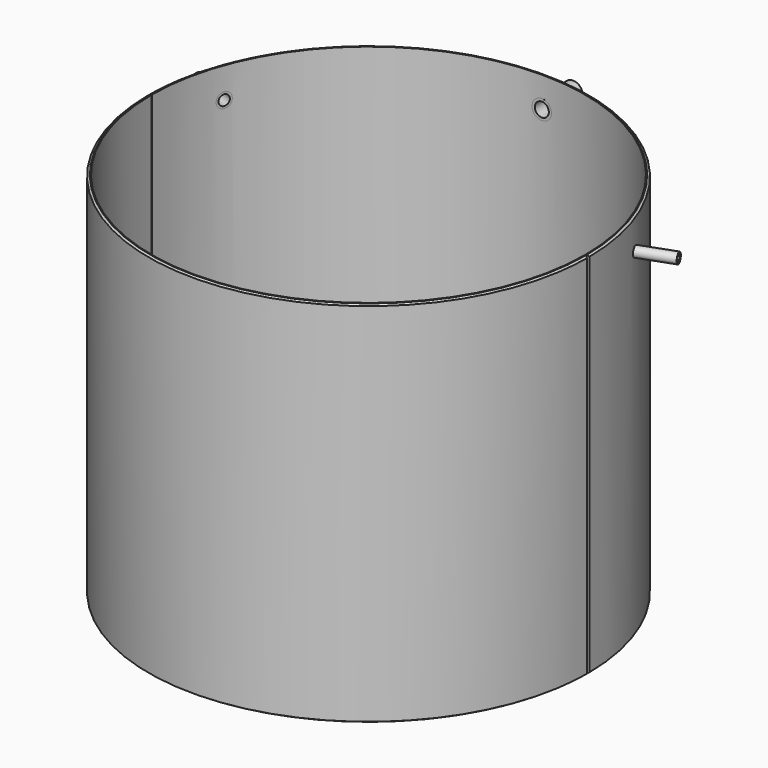
from build123d import *

# Parameters (mm, degrees)
F1_DEPTH  = 600
F7_R      = 31.65
F7_R_2    = 22.91
F10_DEPTH = 716.001
F11_DEPTH = 833
F8_R      = 24.15
F8_R_2    = 17.01
F12_DEPTH = 957.7036279009
F13_DEPTH = 833
F9_R      = 16.7
F9_R_2    = 10.35
F14_DEPTH = 957.7036279351
F15_DEPTH = 833
F16_R     = 706
F17_DEPTH = 600.0010001
F18_DEPTH = 600.0010001
F19_DEPTH = 600.0010001
F20_ANGLE = -90


with BuildPart() as f1:
    # F0 (on Top) → F1 (new body, symmetric)
    with BuildSketch(Plane.XY):
        with BuildLine():
            Line((-1.5, 708.9984132563), (-5.5300381047, 715.9786440101))
            ThreePointArc((-5.5300381047, 715.9786440101), (-716, 0), (-5.5300381047, -715.9786440101))
            Line((-5.5300381047, -715.9786440101), (-1.5, -708.9984132563))
            Line((-1.5, -708.9984132563), (-1.5, -705.9984065138))
            ThreePointArc((-1.5, -705.9984065138), (-706, 0), (-1.5, 705.9984065138))
            Line((-1.5, 705.9984065138), (-1.5, 708.9984132563))
        make_face()
    extrude(amount=F1_DEPTH, both=True)


with BuildPart() as f1b:
    # F0 (on Top) → F1, piece 2 (new body, symmetric)
    with BuildSketch(Plane.XY):
        with BuildLine():
            Line((5.5300381047, 715.9786440101), (1.5, 708.9984132563))
            Line((1.5, 708.9984132563), (1.5, 705.9984065138))
            ThreePointArc((1.5, 705.9984065138), (706, 0), (1.5, -705.9984065138))
            Line((1.5, -705.9984065138), (1.5, -708.9984132563))
            Line((1.5, -708.9984132563), (5.5300381047, -715.9786440101))
            ThreePointArc((5.5300381047, -715.9786440101), (716, 0), (5.5300381047, 715.9786440101))
        make_face()
    extrude(amount=F1_DEPTH, both=True)


with BuildPart() as f3_tool:
    # F2 (on Right) → F3 (revolve)
    with BuildSketch(Plane.YZ):
        Polygon((-726.7167568207, 589.7703095735), (-708.9984132563, 600), (-726.7167568207, 600), align=None)
        Polygon((-726.7167568207, -589.7703095735), (-726.7167568207, -600), (-708.9984132563, -600), align=None)
    revolve(axis=Axis((0, 0, -16.8183147907), (0, 0, -1)))


with BuildPart() as f1_1:
    add(f1.part)

    # F3: cut by f3_tool
    add(f3_tool.part, mode=Mode.SUBTRACT)

    # F2 (on Right) → F4 (revolve, cut)
    with BuildSketch(Plane.YZ):
        Polygon((-726.7167568207, 589.7703095735), (-708.9984132563, 600), (-726.7167568207, 600), align=None)
        Polygon((-726.7167568207, -589.7703095735), (-726.7167568207, -600), (-708.9984132563, -600), align=None)
    revolve(axis=Axis((0, 0, -16.8183147907), (0, 0, -1)), mode=Mode.SUBTRACT)

    # F16 (on Top) → F18 (cut, through all)
    with BuildSketch(Plane.XY):
        Circle(F16_R)
    extrude(amount=F18_DEPTH, mode=Mode.SUBTRACT)

    # F16 (on Top) → F19 (cut, through all)
    with BuildSketch(Plane.XY):
        Circle(F16_R)
    extrude(amount=F19_DEPTH, mode=Mode.SUBTRACT)


with BuildPart() as f1b_1:
    add(f1b.part)

    # F3: cut by f3_tool
    add(f3_tool.part, mode=Mode.SUBTRACT)

    # F7 (on Right) → F10 (cut, through all)
    with BuildSketch(Plane.YZ):
        with Locations((0, 500)):
            Circle(F7_R)
        with Locations((0, 500)):
            Circle(F7_R_2, mode=Mode.SUBTRACT)
        with Locations((0, 500)):
            Circle(F7_R_2)
    extrude(amount=F10_DEPTH, mode=Mode.SUBTRACT)


with BuildPart() as f11:
    # F7 (on Right) → F11 (new body)
    with BuildSketch(Plane.YZ):
        with Locations((0, 500)):
            Circle(F7_R)
        with Locations((0, 500)):
            Circle(F7_R_2, mode=Mode.SUBTRACT)
    extrude(amount=F11_DEPTH)


with BuildPart() as f12_tool:
    # F8 (on line) → F12 (new body, through all)
    with BuildSketch(Plane(origin=(0, 0, 0), x_dir=(0.9396926208, -0.3420201433, 0), z_dir=(-0.3420201433, -0.9396926208, 0))):
        with Locations((0, 500)):
            Circle(F8_R)
        with Locations((0, 500)):
            Circle(F8_R_2, mode=Mode.SUBTRACT)
        with Locations((0, 500)):
            Circle(F8_R_2)
    extrude(amount=-F12_DEPTH)


with BuildPart() as f1b_2:
    add(f1b_1.part)

    # F12: cut by f12_tool
    add(f12_tool.part, mode=Mode.SUBTRACT)


with BuildPart() as f11_1:
    add(f11.part)

    # F12: cut by f12_tool
    add(f12_tool.part, mode=Mode.SUBTRACT)


with BuildPart() as f13:
    # F8 (on line) → F13 (new body)
    with BuildSketch(Plane(origin=(0, 0, 0), x_dir=(0.9396926208, -0.3420201433, 0), z_dir=(-0.3420201433, -0.9396926208, 0))):
        with Locations((0, 500)):
            Circle(F8_R)
        with Locations((0, 500)):
            Circle(F8_R_2, mode=Mode.SUBTRACT)
    extrude(amount=-F13_DEPTH)


with BuildPart() as f14_tool:
    # F9 (on line) → F14 (new body, through all)
    with BuildSketch(Plane(origin=(0, 0, 0), x_dir=(-0.9396926208, -0.3420201433, 0), z_dir=(-0.3420201433, 0.9396926208, 0))):
        with Locations((0, 500)):
            Circle(F9_R)
        with Locations((0, 500)):
            Circle(F9_R_2, mode=Mode.SUBTRACT)
        with Locations((0, 500)):
            Circle(F9_R_2)
    extrude(amount=-F14_DEPTH)


with BuildPart() as f1b_3:
    add(f1b_2.part)

    # F14: cut by f14_tool
    add(f14_tool.part, mode=Mode.SUBTRACT)


with BuildPart() as f11_2:
    add(f11_1.part)

    # F14: cut by f14_tool
    add(f14_tool.part, mode=Mode.SUBTRACT)


with BuildPart() as f13_1:
    add(f13.part)

    # F14: cut by f14_tool
    add(f14_tool.part, mode=Mode.SUBTRACT)


with BuildPart() as f15:
    # F9 (on line) → F15 (new body)
    with BuildSketch(Plane(origin=(0, 0, 0), x_dir=(-0.9396926208, -0.3420201433, 0), z_dir=(-0.3420201433, 0.9396926208, 0))):
        with Locations((0, 500)):
            Circle(F9_R)
        with Locations((0, 500)):
            Circle(F9_R_2, mode=Mode.SUBTRACT)
    extrude(amount=-F15_DEPTH)


with BuildPart() as f17_tool:
    # F16 (on Top) → F17 (new body, through all)
    with BuildSketch(Plane.XY):
        Circle(F16_R)
    extrude(amount=F17_DEPTH)


with BuildPart() as f11_3:
    add(f11_2.part)

    # F17: cut by f17_tool
    add(f17_tool.part, mode=Mode.SUBTRACT)


with BuildPart() as f13_2:
    add(f13_1.part)

    # F17: cut by f17_tool
    add(f17_tool.part, mode=Mode.SUBTRACT)


with BuildPart() as f15_1:
    add(f15.part)

    # F17: cut by f17_tool
    add(f17_tool.part, mode=Mode.SUBTRACT)


with BuildPart() as f1_2:
    # F20: moved
    add(f1_1.part.rotate(Axis((0, 0, -16.8183147907), (0, 0, -1)), F20_ANGLE))


with BuildPart() as f1b_4:
    # F20: moved
    add(f1b_3.part.rotate(Axis((0, 0, -16.8183147907), (0, 0, -1)), F20_ANGLE))


with BuildPart() as f11_4:
    # F20: moved
    add(f11_3.part.rotate(Axis((0, 0, -16.8183147907), (0, 0, -1)), F20_ANGLE))


with BuildPart() as f13_3:
    # F20: moved
    add(f13_2.part.rotate(Axis((0, 0, -16.8183147907), (0, 0, -1)), F20_ANGLE))


with BuildPart() as f15_2:
    # F20: moved
    add(f15_1.part.rotate(Axis((0, 0, -16.8183147907), (0, 0, -1)), F20_ANGLE))


solid = Compound([f1_2.part, f1b_4.part, f11_4.part, f13_3.part, f15_2.part])
